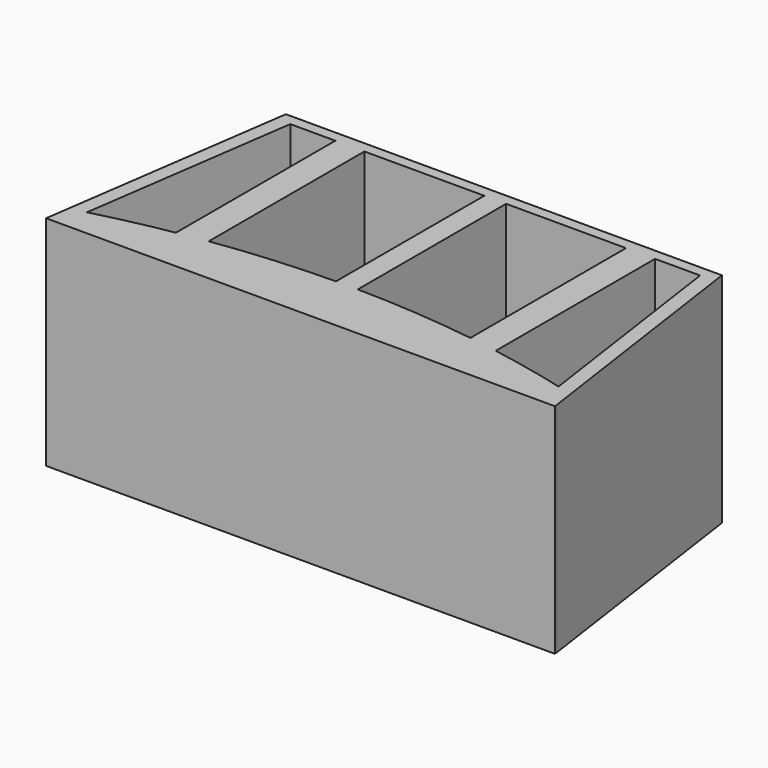
from build123d import *

# Parameters (mm, degrees)
F2_DEPTH = 30
F4_DEPTH = 30
F6_DEPTH = 30


with BuildPart() as f2:
    # F1 (on face) → F2 (new body)
    with BuildSketch(Plane.XY):
        Polygon((-27.811348, 18.733989), (-32.811348, -16.266011), (37.188652, -16.266011), (37.188652, -16.031536), (32.188652, 18.733989), align=None)
    extrude(amount=F2_DEPTH)

    # F3 (on face) → F4 (join)
    with BuildSketch(Plane.XY):
        with BuildLine():
            Line((-32.811348, -16.266011), (37.188652, -16.266011))
            ThreePointArc((37.188652, -16.266011), (2.188652, -11.266011), (-32.811348, -16.266011))
        make_face()
    extrude(amount=F4_DEPTH)

    # F5 (on Top) → F6 (cut)
    with BuildSketch(Plane.XY):
        with BuildLine():
            ThreePointArc((-30.244943, -12.443307), (-25.051853, -11.198209), (-19.811348, -10.170808))
            Line((-19.811348, -10.170808), (-19.811348, 17.233989))
            Line((-19.811348, 17.233989), (-26.005329, 17.233989))
            Line((-26.005329, 17.233989), (-30.244943, -12.443307))
        make_face()
        with BuildLine():
            ThreePointArc((24.188652, -10.170808), (29.444778, -11.201613), (34.653178, -12.451413))
            Line((34.653178, -12.451413), (30.383804, 17.233989))
            Line((30.383804, 17.233989), (24.188652, 17.233989))
            Line((24.188652, 17.233989), (24.188652, -10.170808))
        make_face()
        with BuildLine():
            ThreePointArc((3.688652, -8.2748), (11.959086, -8.639451), (20.188652, -9.537955))
            Line((20.188652, -9.537955), (20.188652, 17.233989))
            Line((20.188652, 17.233989), (3.688652, 17.233989))
            Line((3.688652, 17.233989), (3.688652, -8.2748))
        make_face()
        with BuildLine():
            ThreePointArc((-15.811348, -9.537955), (-7.581783, -8.639451), (0.688652, -8.2748))
            Line((0.688652, -8.2748), (0.688652, 17.233989))
            Line((0.688652, 17.233989), (-15.811348, 17.233989))
            Line((-15.811348, 17.233989), (-15.811348, -9.537955))
        make_face()
    extrude(amount=F6_DEPTH, mode=Mode.SUBTRACT)


solid = f2.part
